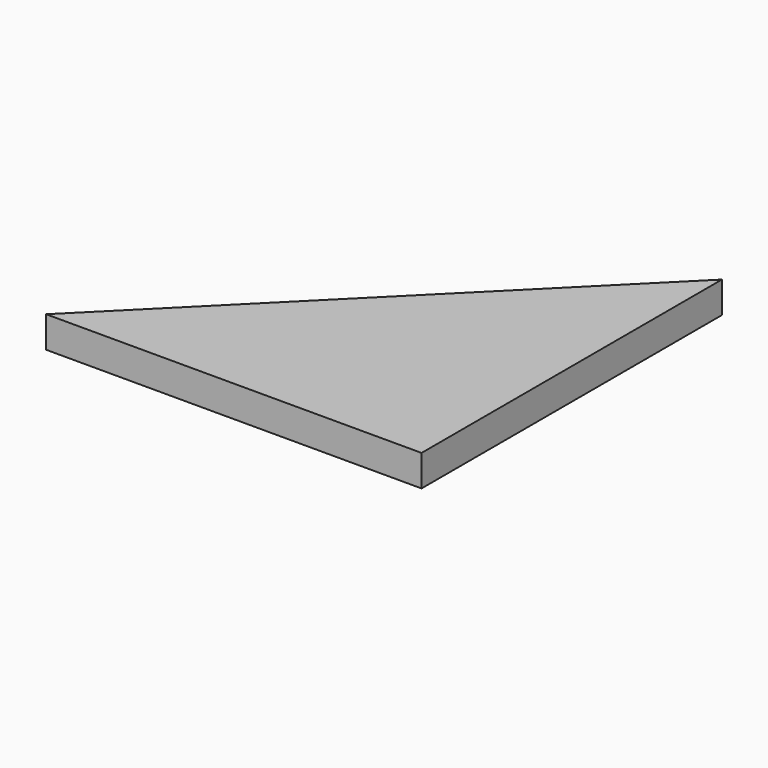
from build123d import *

# Parameters (mm, degrees)
PAD_DEPTH = 10


with BuildPart() as part:
    # Sketch → Pad (new body)
    with BuildSketch(Plane.XY):
        Polygon((-38.049217, -61.94632), (81.950783, -61.94632), (81.950783, 58.05368), align=None)
    extrude(amount=PAD_DEPTH)


solid = part.part
